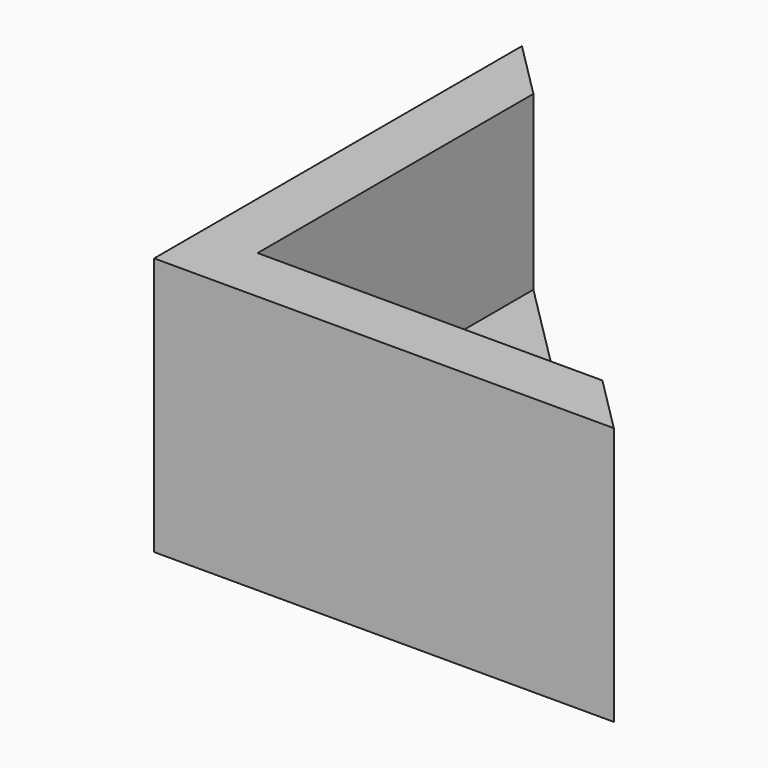
from build123d import *

# Parameters (mm, degrees)
F1_DEPTH = 1.5
F3_DEPTH = 3


with BuildPart() as f1:
    # F0 (on Top) → F1 (new body)
    with BuildSketch(Plane.XY):
        Polygon((0, 8), (0, 0), (8, 0), align=None)
    extrude(amount=F1_DEPTH)

    # F2 (on face) → F3 (join)
    with BuildSketch(Plane.XY.offset(1.5)):
        Polygon((1, 1), (1, 7), (0, 8), (0, 0), (8, 0), (7, 1), align=None)
    extrude(amount=F3_DEPTH)


solid = f1.part
